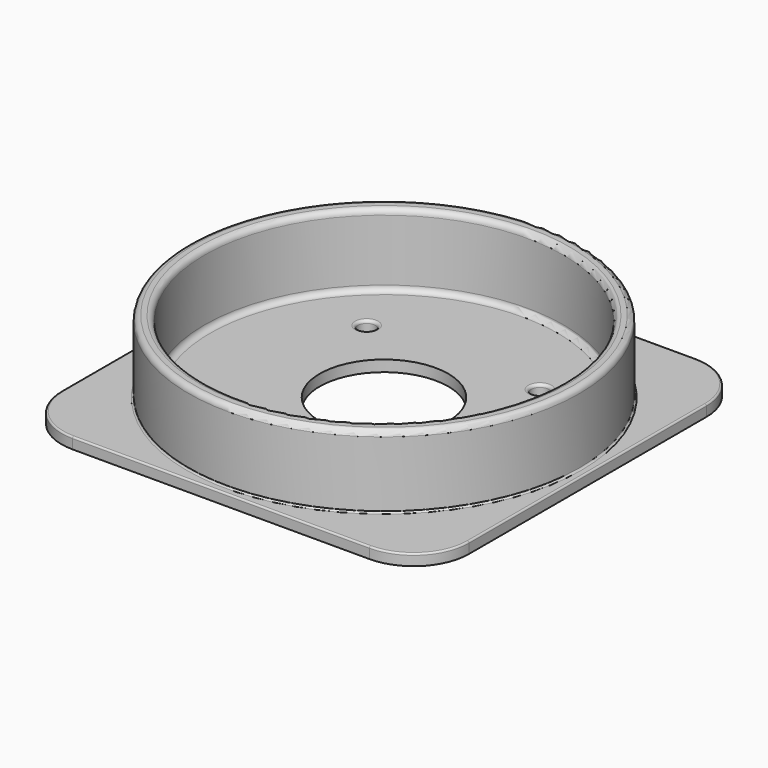
from build123d import *

# Parameters (mm, degrees)
SKETCH_R      = 1.56961
SKETCH_R_2    = 11.5
PAD_DEPTH     = 2
SKETCH001_R   = 35
SKETCH001_R_2 = 32.122088
PAD001_DEPTH  = 13
FILLET_R      = 1
FILLET001_R   = 0.3
FILLET002_R   = 1
FILLET003_R   = 0.5


with BuildPart() as part:
    # Sketch → Pad (new body)
    with BuildSketch(Plane.XY):
        with BuildLine():
            Line((-26.55554, 36.459985), (26.55554, 36.459985))
            ThreePointArc((36.459985, 26.55554), (33.55904, 33.55904), (26.55554, 36.459985))
            Line((36.459985, 26.55554), (36.459985, -26.55554))
            ThreePointArc((26.55554, -36.459985), (33.55904, -33.55904), (36.459985, -26.55554))
            Line((26.55554, -36.459985), (-26.55554, -36.459985))
            ThreePointArc((-36.459985, -26.55554), (-33.55904, -33.55904), (-26.55554, -36.459985))
            Line((-36.459985, -26.55554), (-36.459985, 26.55554))
            ThreePointArc((-26.55554, 36.459985), (-33.55904, 33.55904), (-36.459985, 26.55554))
        make_face()
        with Locations((15.5, 15.5)):
            Circle(SKETCH_R, mode=Mode.SUBTRACT)
        with Locations((-15.5, 15.5)):
            Circle(SKETCH_R, mode=Mode.SUBTRACT)
        with Locations((15.5, -15.5)):
            Circle(SKETCH_R, mode=Mode.SUBTRACT)
        with Locations((-15.5, -15.5)):
            Circle(SKETCH_R, mode=Mode.SUBTRACT)
        Circle(SKETCH_R_2, mode=Mode.SUBTRACT)
    extrude(amount=PAD_DEPTH)

    # Sketch001 → Pad001 (new body)
    with BuildSketch(Plane.XY.offset(2)):
        Circle(SKETCH001_R)
        Circle(SKETCH001_R_2, mode=Mode.SUBTRACT)
    extrude(amount=PAD001_DEPTH)

    # Fillet
    fillet_edges = [part.edges().sort_by_distance(p)[0] for p in [
        (-35, 0, 15),
        (-32.122088, 0, 15),
    ]]
    fillet(fillet_edges, radius=FILLET_R)

    # Fillet001
    fillet001_edges = [part.edges().sort_by_distance(p)[0] for p in [
        (-36.459985, 0, 2),
        (-33.55904, -33.55904, 2),
        (-33.55904, 33.55904, 2),
        (0, -36.459985, 2),
        (0, 36.459985, 2),
        (33.55904, -33.55904, 2),
        (33.55904, 33.55904, 2),
        (36.459985, 0, 2),
        (-35, 0, 2),
    ]]
    fillet(fillet001_edges, radius=FILLET001_R)

    # Fillet002
    fillet002_edges = [part.edges().sort_by_distance(p)[0] for p in [
        (-32.122088, 0, 2),
    ]]
    fillet(fillet002_edges, radius=FILLET002_R)

    # Fillet003
    fillet003_edges = [part.edges().sort_by_distance(p)[0] for p in [
        (13.93039, 15.5, 2),
        (13.93039, -15.5, 2),
        (-17.06961, -15.5, 2),
        (-17.06961, 15.5, 2),
    ]]
    fillet(fillet003_edges, radius=FILLET003_R)


solid = part.part
